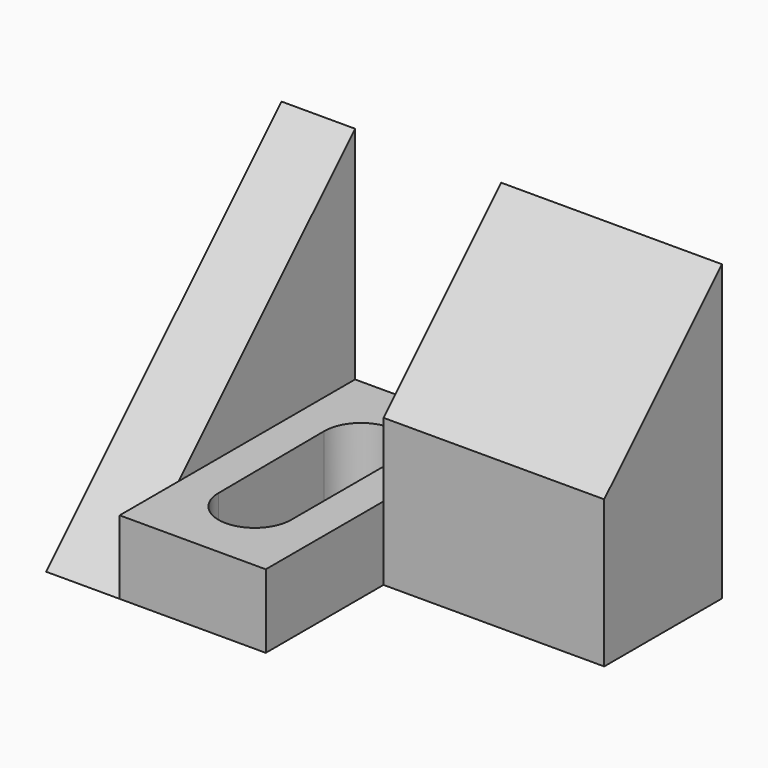
from build123d import *

# Parameters (mm, degrees)
F0_W     = 6.35
F0_H     = 25.4
F1_DEPTH = 25.4
F2_DEPTH = 6.35
F0_W_2   = 19.05
F0_H_2   = 12.7
F3_DEPTH = 25.4
F5_DEPTH = 25.4
F7_DEPTH = 25.4
F9_DEPTH = 6.35


with BuildPart() as f1:
    # F0 (on Top) → F1 (new body)
    with BuildSketch(Plane.XY):
        with Locations((3.175, -12.7)):
            Rectangle(F0_W, F0_H)
    extrude(amount=F1_DEPTH)

    # F0 (on Top) → F2 (join)
    with BuildSketch(Plane.XY):
        Polygon((18.962754, 0), (6.35, 0), (6.35, -25.4), (18.962754, -25.4), (18.962754, -12.7), align=None)
        with BuildLine():
            ThreePointArc((9.437754, -7.207742), (12.612754, -4.008598), (15.787754, -7.207742))
            Line((15.787754, -7.207742), (15.787754, -18.724348))
            ThreePointArc((15.787754, -18.724348), (12.656377, -21.832093), (9.525, -18.724348))
            Line((9.525, -18.724348), (9.437754, -7.207742))
        make_face(mode=Mode.SUBTRACT)
    extrude(amount=F2_DEPTH)

    # F0 (on Top) → F3 (join)
    with BuildSketch(Plane.XY):
        with Locations((28.487754, -6.35)):
            Rectangle(F0_W_2, F0_H_2)
    extrude(amount=F3_DEPTH)

    # F4 (on face) → F5 (cut)
    with BuildSketch(Plane.YZ.offset(38.012754)):
        Polygon((-12.7, 25.4), (-12.7, 12.7), (0, 25.4), align=None)
    extrude(amount=-F5_DEPTH, mode=Mode.SUBTRACT)

    # F6 (on face) → F7 (cut)
    with BuildSketch(Plane.YZ.offset(6.35)):
        Polygon((0, 25.4), (-25.4, 25.4), (-25.4, 6.35), (-19.05, 6.35), align=None)
    extrude(amount=-F7_DEPTH, mode=Mode.SUBTRACT)

    # F8 (on face) → F9 (cut)
    with BuildSketch(Plane(origin=(0, 0, 0), x_dir=(0, -1, 0), z_dir=(-1, 0, 0))):
        Polygon((25.4, 6.35), (19.05, 6.35), (25.4, 0), align=None)
    extrude(amount=-F9_DEPTH, mode=Mode.SUBTRACT)


solid = f1.part
